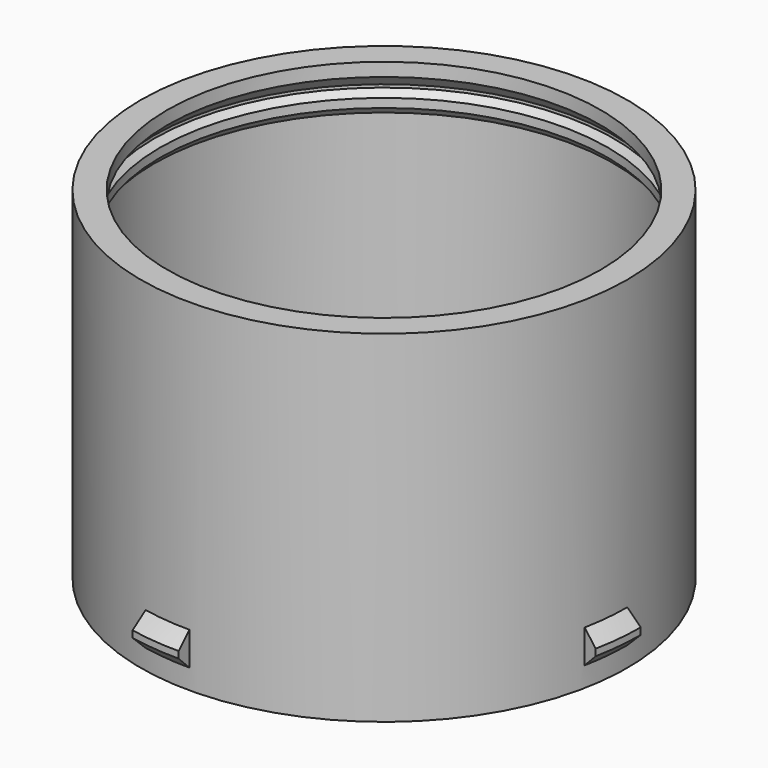
from build123d import *

# Parameters (mm, degrees)
SKETCH003_W        = 2
SKETCH003_H        = 10
GROOVE_ANGLE       = 78.75
POLARPATTERN_COUNT = 4


with BuildPart() as part:
    # Sketch002 → Revolution002 (revolve)
    with BuildSketch(Plane.XZ):
        Polygon((-32.8, 46.066667), (-29.2, 46.066667), (-29.2, 44.266667), (-31, 42.466667), (-31, 42.066667), (-30.198, 41.264667), (-30.198, 40.064667), (-31, 39.10888), (-31, 3.6), (-29.2, 1.8), (-29.2, 0), (-32.8, 0), (-32.8, 2.7), (-34.6, 4.5), (-34.6, 5.4), (-32.8, 7.2), (-32.8, 44.266667), align=None)
    revolve(axis=Axis((0, 0, 0), (0, 0, 1)))

    # Sketch003 → Groove (revolve, cut)
    with BuildSketch(Plane.XZ):
        with Locations((-33.8, 5)):
            Rectangle(SKETCH003_W, SKETCH003_H)
    groove = revolve(axis=Axis((0, 0, 0), (0, 0, 1)), revolution_arc=GROOVE_ANGLE, mode=Mode.SUBTRACT)

    # PolarPattern: Groove ×4 about axis
    polarpattern_axis = Axis((0, 0, 0), (0, 0, 1))
    for i in range(1, POLARPATTERN_COUNT):
        add(groove.rotate(polarpattern_axis, i * 360 / POLARPATTERN_COUNT), mode=Mode.SUBTRACT)


solid = part.part
